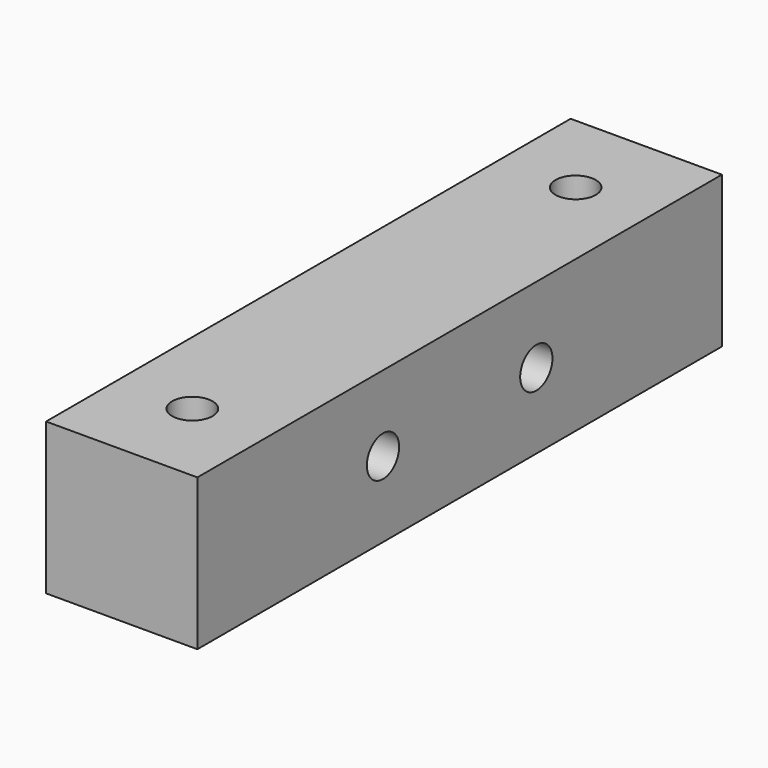
from build123d import *

# Parameters (mm, degrees)
SKETCH014_W     = 15
SKETCH014_H     = 65
PAD008_DEPTH    = 15
SKETCH015_R     = 2
POCKET005_DEPTH = 4
SKETCH016_R     = 2
POCKET006_DEPTH = 4


with BuildPart() as part:
    # Sketch014 → Pad008 (new body)
    with BuildSketch(Plane(origin=(-27, 0, 50), x_dir=(1, 0, 0), z_dir=(0, 0, 1))):
        with Locations((-7.5, 0)):
            Rectangle(SKETCH014_W, SKETCH014_H)
    extrude(amount=-PAD008_DEPTH)

    # Sketch015 → Pocket005 (cut)
    with BuildSketch(Plane(origin=(-34.5, 0, 50), x_dir=(1, 0, 0), z_dir=(0, 0, 1))):
        with Locations((0, 23.75)):
            Circle(SKETCH015_R)
        with Locations((0, -23.75)):
            Circle(SKETCH015_R)
    extrude(amount=-POCKET005_DEPTH, mode=Mode.SUBTRACT)

    # Sketch016 → Pocket006 (cut)
    with BuildSketch(Plane.YZ.offset(-27)):
        with Locations((-9.5, 42.5)):
            Circle(SKETCH016_R)
        with Locations((9.5, 42.5)):
            Circle(SKETCH016_R)
    extrude(amount=-POCKET006_DEPTH, mode=Mode.SUBTRACT)


solid = part.part
